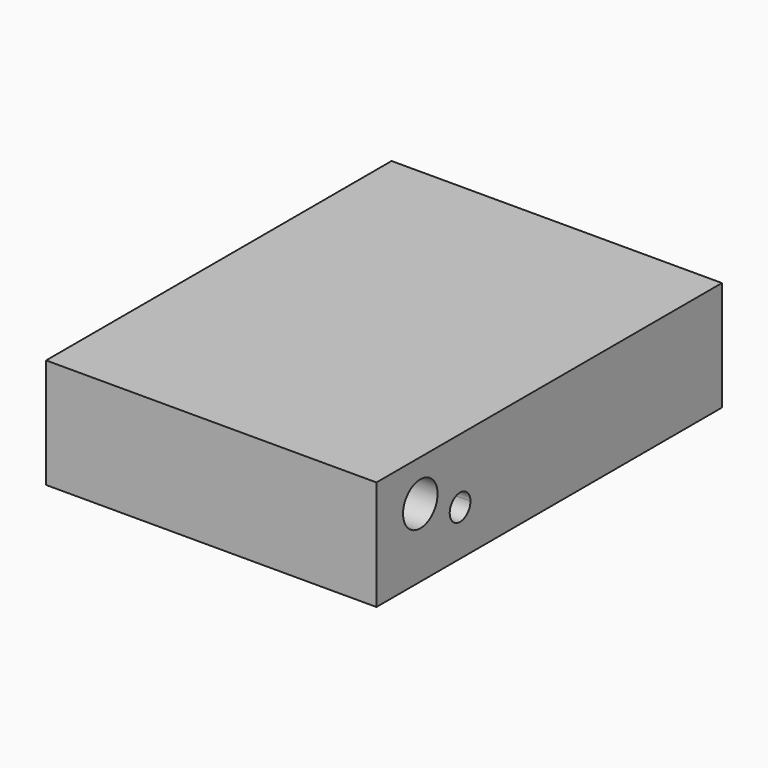
from build123d import *

# Parameters (mm, degrees)
F0_W     = 76.5
F0_H     = 100
F1_DEPTH = 25.4
F2_R     = 5
F3_DEPTH = 76.501
F5_DEPTH = 76.501


with BuildPart() as f1:
    # F0 (on Top) → F1 (new body)
    with BuildSketch(Plane.XY):
        with Locations((0, 20)):
            Rectangle(F0_W, F0_H)
    extrude(amount=F1_DEPTH)

    # F2 (on face) → F3 (cut, through all)
    with BuildSketch(Plane.YZ.offset(38.25)):
        with Locations((-17.3, 15.875)):
            Circle(F2_R)
    extrude(amount=-F3_DEPTH, mode=Mode.SUBTRACT)

    # F4 (on face) → F5 (cut, through all)
    with BuildSketch(Plane.YZ.offset(38.25)):
        with BuildLine():
            ThreePointArc((-8.508814, 11.775603), (-6.43921, 7.57886), (-2.789891, 10.507748))
            ThreePointArc((-2.789891, 10.507748), (-5.140572, 13.436636), (-8.508814, 11.775603))
        make_face()
    extrude(amount=-F5_DEPTH, mode=Mode.SUBTRACT)


solid = f1.part
